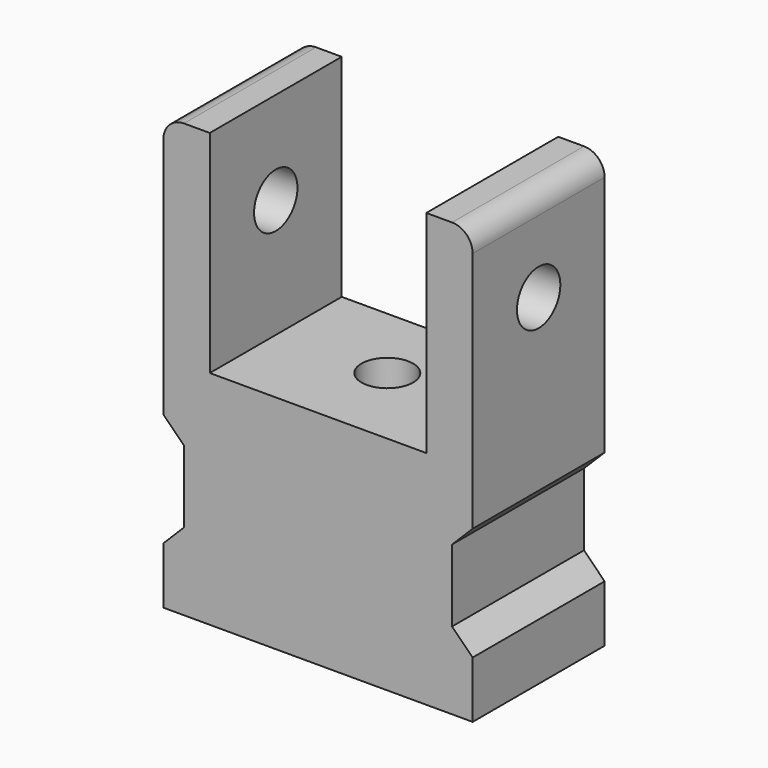
from build123d import *

# Parameters (mm, degrees)
PAD029_DEPTH         = 16
SKETCH091_R          = 2.5
POCKET046_DEPTH      = 42.001
SKETCH092_R          = 2.63
POCKET047_DEPTH      = 30.001
POCKET047_DEPTH_BACK = 0.001


with BuildPart() as part:
    # Sketch089 → Pad029 (new body)
    with BuildSketch(Plane.XZ.offset(37.4)):
        with BuildLine():
            Line((-13, 31), (-10.5, 31))
            Line((-10.5, 10.5), (-10.5, 31))
            Line((10.5, 10.5), (-10.5, 10.5))
            Line((10.5, 31), (10.5, 10.5))
            Line((10.5, 31), (13, 31))
            ThreePointArc((15, 29), (14.414214, 30.414214), (13, 31))
            Line((15, 29), (15, 5.5))
            Line((15, 5.5), (13, 3.5))
            Line((13, 3.5), (13, -3.5))
            Line((13, -3.5), (15, -5.5))
            Line((15, -5.5), (15, -11))
            Line((15, -11), (-15, -11))
            Line((-15, -11), (-15, -5.5))
            Line((-13, -3.5), (-15, -5.5))
            Line((-13, 3.5), (-13, -3.5))
            Line((-15, 5.5), (-13, 3.5))
            Line((-15, 5.5), (-15, 29))
            ThreePointArc((-13, 31), (-14.414214, 30.414214), (-15, 29))
        make_face()
    extrude(amount=-PAD029_DEPTH)

    # Sketch091 → Pocket046 (cut, through all)
    with BuildSketch(Plane(origin=(0, 0, -11), x_dir=(-1, 0, 0), z_dir=(0, 0, -1))):
        with Locations((0, -29)):
            Circle(SKETCH091_R)
    extrude(amount=-POCKET046_DEPTH, mode=Mode.SUBTRACT)

    # Sketch092 → Pocket047 (cut, two sides)
    with BuildSketch(Plane(origin=(15, -29.4, 0), x_dir=(0, 1, 0), z_dir=(1, 0, 0))) as pocket047_sk:
        with Locations((0, 22)):
            Circle(SKETCH092_R)
    extrude(amount=-POCKET047_DEPTH, mode=Mode.SUBTRACT)
    extrude(pocket047_sk.sketch, amount=POCKET047_DEPTH_BACK, mode=Mode.SUBTRACT)


solid = part.part
